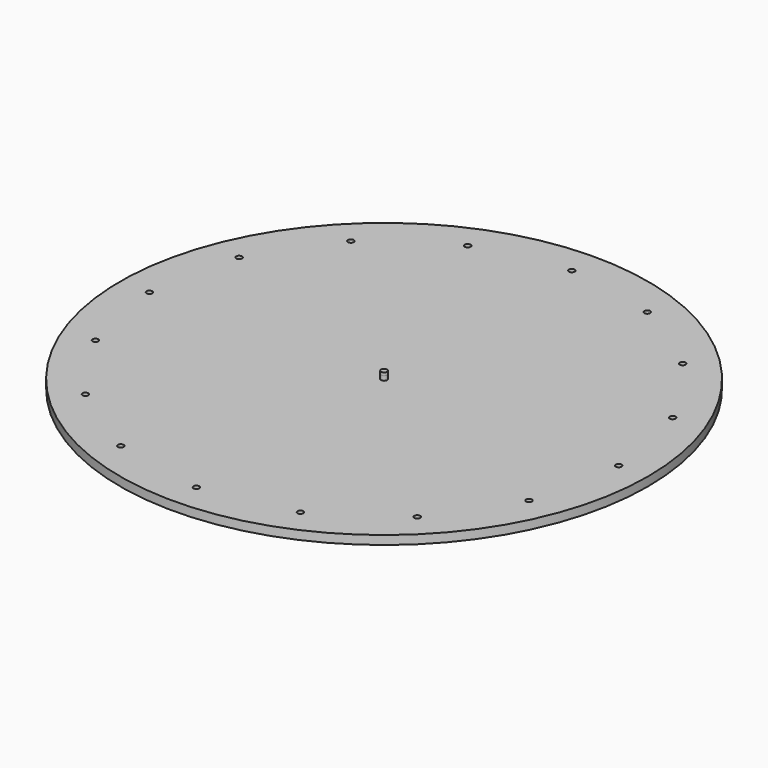
from build123d import *

# Parameters (mm, degrees)
F0_R     = 571.5
F0_R_2   = 6.35
F0_R_3   = 6.604
F1_DEPTH = 19.05
F2_DEPTH = 9.525
F3_DEPTH = 6.35


with BuildPart() as f1:
    # F0 (on Top) → F1 (new body)
    with BuildSketch(Plane.XY):
        Circle(F0_R)
        with Locations((-359.2102448428, -359.2102448428)):
            Circle(F0_R_2, mode=Mode.SUBTRACT)
        with Locations((-194.4031836415, -469.3308025157)):
            Circle(F0_R_2, mode=Mode.SUBTRACT)
        with Locations((-469.3308025157, -194.4031836415)):
            Circle(F0_R_2, mode=Mode.SUBTRACT)
        with Locations((0, -508)):
            Circle(F0_R_2, mode=Mode.SUBTRACT)
        with Locations((194.4031836415, -469.3308025157)):
            Circle(F0_R_2, mode=Mode.SUBTRACT)
        with Locations((359.2102448428, -359.2102448428)):
            Circle(F0_R_2, mode=Mode.SUBTRACT)
        with Locations((469.3308025157, -194.4031836415)):
            Circle(F0_R_2, mode=Mode.SUBTRACT)
        with Locations((-508, 0)):
            Circle(F0_R_2, mode=Mode.SUBTRACT)
        with Locations((-469.3308025157, 194.4031836415)):
            Circle(F0_R_2, mode=Mode.SUBTRACT)
        with Locations((-359.2102448428, 359.2102448428)):
            Circle(F0_R_2, mode=Mode.SUBTRACT)
        with Locations((-194.4031836415, 469.3308025157)):
            Circle(F0_R_2, mode=Mode.SUBTRACT)
        Circle(F0_R_3, mode=Mode.SUBTRACT)
        with Locations((508, 0)):
            Circle(F0_R_2, mode=Mode.SUBTRACT)
        with Locations((469.3308025157, 194.4031836415)):
            Circle(F0_R_2, mode=Mode.SUBTRACT)
        with Locations((0, 508)):
            Circle(F0_R_2, mode=Mode.SUBTRACT)
        with Locations((194.4031836415, 469.3308025157)):
            Circle(F0_R_2, mode=Mode.SUBTRACT)
        with Locations((359.2102448428, 359.2102448428)):
            Circle(F0_R_2, mode=Mode.SUBTRACT)
    extrude(amount=-F1_DEPTH)

    # F0 (on Top) → F2 (join, symmetric)
    with BuildSketch(Plane.XY):
        Circle(F0_R_3)
    extrude(amount=F2_DEPTH, both=True)

    # F3 (add): a face of the model
    f3_faces = [f1.faces().sort_by_distance(p)[0] for p in [
        (0, 0, 9.525),
    ]]
    extrude(f3_faces, amount=F3_DEPTH)


solid = f1.part
